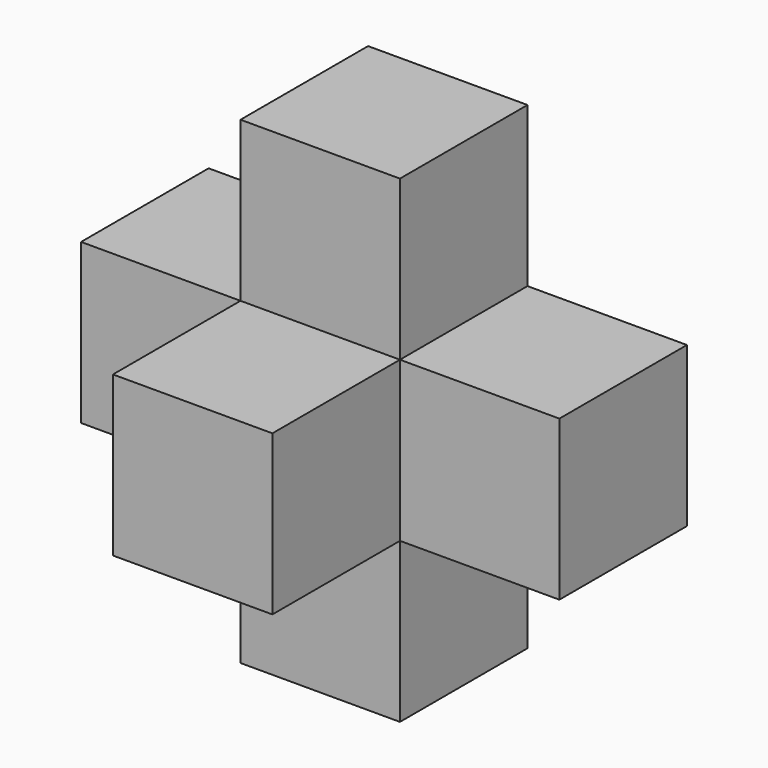
from build123d import *

# Parameters (mm, degrees)
F0_W     = 19.05
F0_H     = 19.05
F1_DEPTH = 57.15
F4_W     = 19.05
F4_H     = 19.05
F5_DEPTH = 19.05
F6_DEPTH = 38.1
F2_W     = 19.05
F2_H     = 19.05
F7_DEPTH = 38.1


with BuildPart() as f1:
    # F0 (on Top) → F1 (new body)
    with BuildSketch(Plane.XY):
        with Locations((9.525, -9.525)):
            Rectangle(F0_W, F0_H)
    extrude(amount=F1_DEPTH)

    # F4 (on Right) → F5 (join)
    with BuildSketch(Plane.YZ):
        with Locations((-9.525, 28.575)):
            Rectangle(F4_W, F4_H)
    extrude(amount=-F5_DEPTH)

    # F4 (on Right) → F6 (join)
    with BuildSketch(Plane.YZ):
        with Locations((-9.525, 28.575)):
            Rectangle(F4_W, F4_H)
    extrude(amount=F6_DEPTH)

    # F2 (on Front) → F7 (join)
    with BuildSketch(Plane.XZ):
        with Locations((9.525, 28.575)):
            Rectangle(F2_W, F2_H)
    extrude(amount=F7_DEPTH)


solid = f1.part
